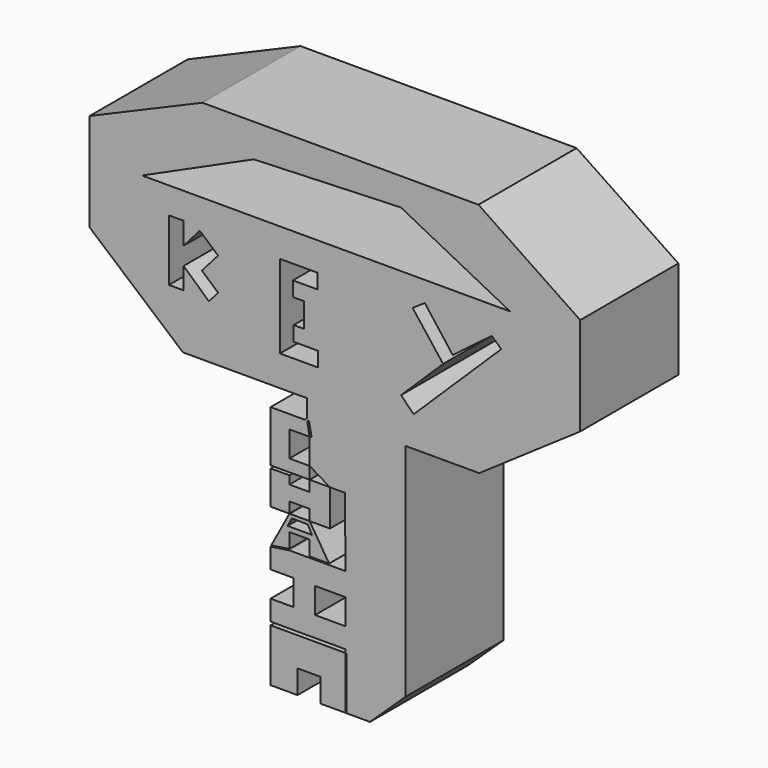
from build123d import *

# Parameters (mm, degrees)
F0_W      = 25.4
F0_H      = 25.4
F1_DEPTH  = 6.35
F3_DEPTH  = 25.4
F4_DEPTH  = 25.4
F2_W      = 1.5741327426
F2_H      = 1.3268706389
F2_W_2    = 1.187200658
F2_H_2    = 1.2226499384
F5_DEPTH  = 25.4
F6_DEPTH  = 25.4
F7_DEPTH  = 25.4
F8_DEPTH  = 25.4
F9_DEPTH  = 25.4
F10_DEPTH = 25.4
F2_W_3    = 0.0468016022
F2_H_3    = 2.728624735
F11_DEPTH = 25.4


with BuildPart() as f1:
    # F0 (on Front) → F1 (new body)
    with BuildSketch(Plane.XZ):
        with Locations((12.7, 12.7)):
            Rectangle(F0_W, F0_H)
    extrude(amount=F1_DEPTH)

    # F2 (on face) → F3 (cut)
    with BuildSketch(Plane.XZ.offset(6.35)):
        Polygon((11.3045458782, 12.6861063085), (11.2601406232, 12.6359642364), (11.3882992748, 11.9951701235), (11.4073375334, 11.9818783017), (11.4946379989, 12.0078130807), (11.3568859374, 12.6965743064), align=None)
    extrude(amount=-F3_DEPTH, mode=Mode.SUBTRACT)

    # F2 (on face) → F4 (cut)
    with BuildSketch(Plane.XZ.offset(6.35)):
        Polygon((4.8667113453, 19.705099985), (4.1047113453, 19.705099985), (4.1047113453, 16.530099985), (4.8667113453, 16.530099985), (4.8667113453, 17.646435377), (6.1755171202, 16.4531112731), (6.6484752777, 17.0069300941), (5.8113521077, 17.7406859724), (6.6484752777, 18.6957382214), (5.7038345153, 19.5237355067), (4.8667113453, 18.5686832578), align=None)
        Polygon((17.3532462063, 20.0170688259), (16.7224295437, 19.5896178484), (18.3006953448, 17.5494197756), (16.1248423702, 15.4179709552), (16.7738881073, 14.7554037454), (21.310064048, 19.1990067695), (20.8210359426, 19.650104071), (18.7980631883, 18.1141414298), align=None)
        Polygon((9.8554994911, 19.5896178484), (9.8554994911, 17.7037799731), (9.8554994911, 15.278255567), (11.8336537853, 15.278255567), (11.8336537853, 16.040255567), (10.5636537853, 16.040255567), (10.5636537853, 16.802255567), (11.1025738376, 16.802255567), (11.1025738376, 18.0656178484), (10.5251594293, 18.0656178484), (10.5251594293, 18.8276178484), (11.7951594293, 18.8276178484), (11.7951594293, 19.5896178484), align=None)
    extrude(amount=-F4_DEPTH, mode=Mode.SUBTRACT)

    # F2 (on face) → F5 (cut)
    with BuildSketch(Plane.XZ.offset(6.35)):
        Polygon((11.3918762654, 11.963872239), (11.3760931417, 11.9772851467), (10.3443460539, 11.9772851467), (10.3443460539, 10.6504149735), (11.3918762654, 10.6504149735), align=None)
        Polygon((10.3443460539, 6.4602969214), (11.3918762654, 6.4602969214), (11.3918762654, 6.5283267759), (11.3918762654, 7.2983205318), (10.3443460539, 7.2983205318), (10.3443460539, 6.5283267759), align=None)
        with Locations((12.4582835298, 4.6096618753)):
            Rectangle(F2_W, F2_H)
        with Locations((11.3569586538, 0.6113249692)):
            Rectangle(F2_W_2, F2_H_2)
        Polygon((11.3918762654, 10.0218970329), (10.3443460539, 10.0218970329), (10.3443460539, 9.8811993375), (10.3443460539, 9.4632143155), (11.3918762654, 9.4632143155), align=None)
    extrude(amount=-F5_DEPTH, mode=Mode.SUBTRACT)

    # F2 (on face) → F6 (cut)
    with BuildSketch(Plane.XZ.offset(6.35)):
        Polygon((12.4394055456, 6.4602969214), (13.2453499011, 6.4602969214), (12.4394055456, 8.1363441423), (11.3918762654, 8.1363441423), (12.396886896, 6.5283267759), align=None)
        Polygon((12.4394055456, 8.1363441423), (13.2453499011, 6.4602969214), (13.2194478065, 10.0218970329), (12.4394055456, 10.0218970329), align=None)
    extrude(amount=-F6_DEPTH, mode=Mode.SUBTRACT)

    # F2 (on face) → F7 (cut)
    with BuildSketch(Plane.XZ.offset(6.35)):
        Polygon((10.3443460539, 8.6950268596), (10.3443460539, 8.1466408446), (10.3525146842, 8.1363441423), (11.3799376413, 8.1363441423), (11.3918762654, 8.1456918269), (11.3918762654, 8.6950268596), align=None)
        Polygon((11.3918762654, 10.63934993), (11.3918762654, 10.0235464051), (11.3941496238, 10.0218970329), (12.4334173265, 10.0218970329), (12.4350024447, 10.0245388949), (11.3967579036, 10.6474859888), align=None)
    extrude(amount=-F7_DEPTH, mode=Mode.SUBTRACT)

    # F2 (on face) → F8 (cut)
    with BuildSketch(Plane.XZ.offset(6.35)):
        Polygon((0, 22.8981861721), (5.8363882299, 25.4), (0, 25.4), align=None)
        Polygon((25.4, 25.4), (20.1304874707, 25.4), (25.4, 21.8567334698), align=None)
        Polygon((4.8287836991, 13.6944320588), (0, 17.8181861721), (0, 0), (9.3666529283, 0), (9.3666529283, 2.728624735), (13.2070397958, 2.728624735), (13.2453499011, 2.7803417761), (13.2453499011, 2.8986970428), (9.3666529283, 2.8986970428), (9.3666529283, 3.9462265559), (10.553852655, 3.9462265559), (10.553852655, 5.2730971947), (9.3666529283, 5.2730971947), (9.3666529283, 6.3206264749), (9.3993271689, 6.3813072698), (10.3443460539, 8.1363441423), (9.3666529283, 8.1363441423), (9.3666529283, 9.8811993375), (10.3443460539, 9.8811993375), (10.3443460539, 10.0218970329), (9.3666529283, 10.0218970329), (9.3666529283, 12.6756383106), (11.1529044807, 12.6756383106), (11.2522058189, 12.7877686173), (11.2522058189, 13.6944320588), align=None)
        Polygon((16.1153711372, 23.9690360215), (8.5006434467, 23.6856243072), (2.7146538465, 21.0693627863), (21.7646538465, 21.0693627863), align=None)
        Polygon((25.4, 0), (25.4, 16.7767334698), (20.1682399362, 13.1779577565), (16.3582399362, 13.1779577565), (16.3582399362, 1.7479577565), (14.5153499011, 0), align=None)
    extrude(amount=-F8_DEPTH, mode=Mode.SUBTRACT)

    # F2 (on face) → F9 (cut)
    with BuildSketch(Plane.XZ.offset(6.35)):
        Polygon((10.3443460539, 6.5283267759), (9.3993271689, 6.3813072698), (9.3666529283, 6.3206264749), (10.3443460539, 6.4602969214), align=None)
        Polygon((11.3918762654, 6.4602969214), (12.4394055456, 6.4602969214), (12.396886896, 6.5283267759), (11.3918762654, 6.5283267759), align=None)
    extrude(amount=-F9_DEPTH, mode=Mode.SUBTRACT)

    # F2 (on face) → F10 (cut)
    with BuildSketch(Plane.XZ.offset(6.35)):
        Polygon((11.2931728363, 7.9554002732), (10.4726087302, 7.9641295597), (10.2478063918, 7.5466390744), (11.5114087239, 7.5466390744), align=None)
    extrude(amount=-F10_DEPTH, mode=Mode.SUBTRACT)

    # F2 (on face) → F11 (cut)
    with BuildSketch(Plane.XZ.offset(6.35)):
        with Locations((13.2687507022, 1.3643123675)):
            Rectangle(F2_W_3, F2_H_3)
    extrude(amount=-F11_DEPTH, mode=Mode.SUBTRACT)


solid = f1.part
